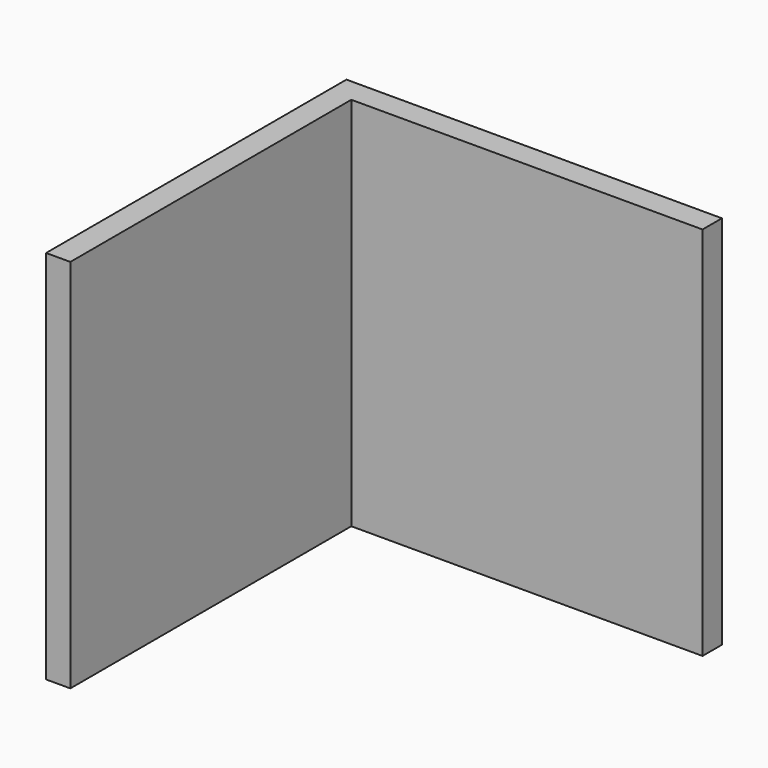
from build123d import *

# Parameters (mm, degrees)
F0_W     = 33.02
F0_H     = 33.02
F1_DEPTH = 33.02
F2_T     = -2.1336


with BuildPart() as f1:
    # F0 (on Front) → F1 (new body)
    with BuildSketch(Plane.XZ):
        with Locations((-4.376881, 3.478918)):
            Rectangle(F0_W, F0_H)
    extrude(amount=F1_DEPTH)

    # F2
    f2_openings = [f1.faces().sort_by_distance(p)[0] for p in [
        (-4.376881, -16.51, -13.031082),
        (12.133119, -16.51, 3.478918),
        (-4.376881, -33.02, 3.478918),
        (-4.376881, -16.51, 19.988918),
    ]]
    offset(amount=F2_T, openings=f2_openings)


solid = f1.part
